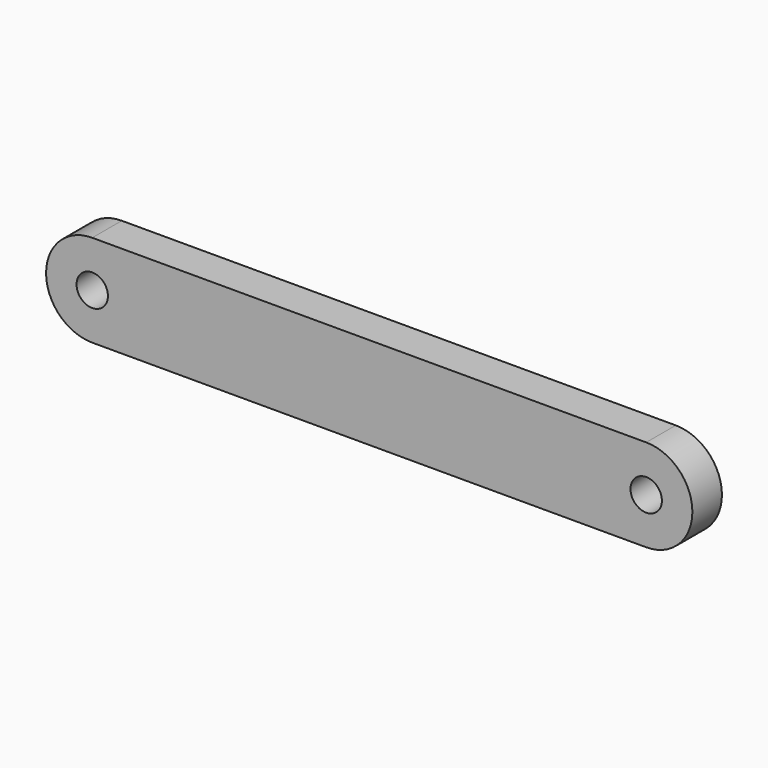
from build123d import *

# Parameters (mm, degrees)
F1_DEPTH = 4
F2_D     = 3.4


with BuildPart() as f1:
    # F0 (on Front) → F1 (new body)
    with BuildSketch(Plane.XZ):
        with BuildLine():
            Line((60, 5), (0, 5))
            ThreePointArc((0, 5), (-5, 0), (0, -5))
            Line((0, -5), (60, -5))
            ThreePointArc((60, -5), (65, 0), (60, 5))
        make_face()
    extrude(amount=F1_DEPTH)

    # F2 (through all)
    with Locations(Plane(origin=(0, 0, 0), x_dir=(1, 0, 0), z_dir=(0, 1, 0))):
        with Locations((0, 0), (60, 0)):
            Hole(F2_D / 2)


solid = f1.part
